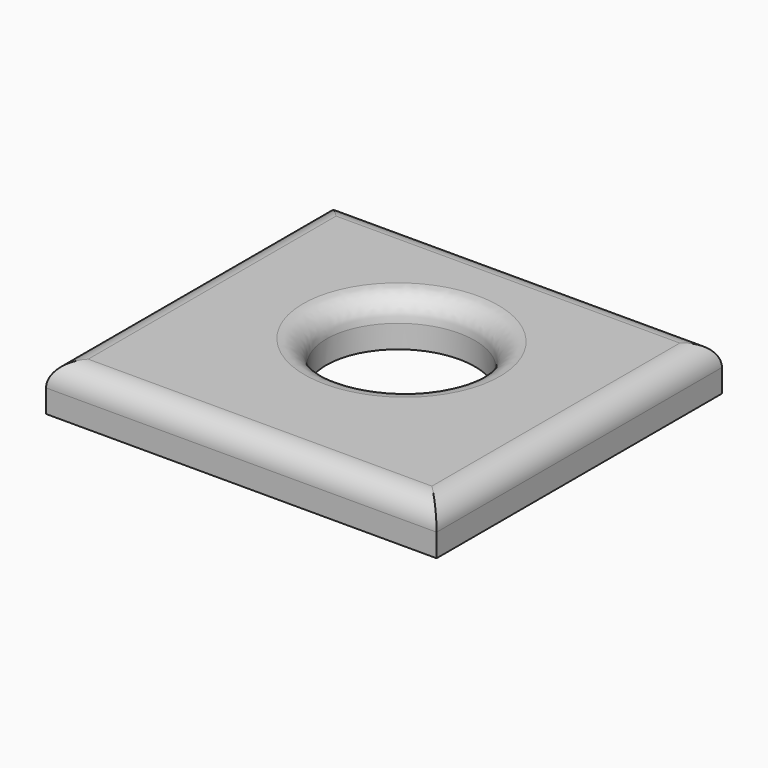
from build123d import *

# Parameters (mm, degrees)
F0_W     = 84.8001912236
F0_H     = 77.4359703064
F1_DEPTH = 10.0706256926
F3_DEPTH = 86.0751271248
F4_R     = 5.08


with BuildPart() as f1:
    # F0 (on Top) → F1 (new body)
    with BuildSketch(Plane.XY):
        with Locations((0.2231411636, 12.3685747385)):
            Rectangle(F0_W, F0_H)
    extrude(amount=F1_DEPTH)

    # F2 (on face) → F3 (cut)
    with BuildSketch(Plane.XY.offset(10.0706256926)):
        with BuildLine():
            add(Edge.make_bspline(
                [(-16.2905976176, 17.3896253109), (-16.2905976176, -9.7921567435), (8.1452988088, 3.7987342837), (32.5811952353, 17.3896253109), (8.1452988088, 30.9805163381), (-16.2905976176, 44.5714073653), (-16.2905976176, 17.3896253109)],
                knots=[0, 0, 0, 2.0943951024, 2.0943951024, 4.1887902048, 4.1887902048, 6.2831853072, 6.2831853072, 6.2831853072], degree=2, weights=[1, 0.5, 1, 0.5, 1, 0.5, 1]))
        make_face()
    extrude(amount=-F3_DEPTH, mode=Mode.SUBTRACT)

    # F4
    f4_edges = [f1.edges().sort_by_distance(p)[0] for p in [
        (-42.176954, 12.368575, 10.070626),
        (0.223141, 51.08656, 10.070626),
        (0.223141, -26.34941, 10.070626),
        (42.623237, 12.368575, 10.070626),
        (16.290598, 17.389625, 10.070626),
    ]]
    fillet(f4_edges, radius=F4_R)


solid = f1.part
